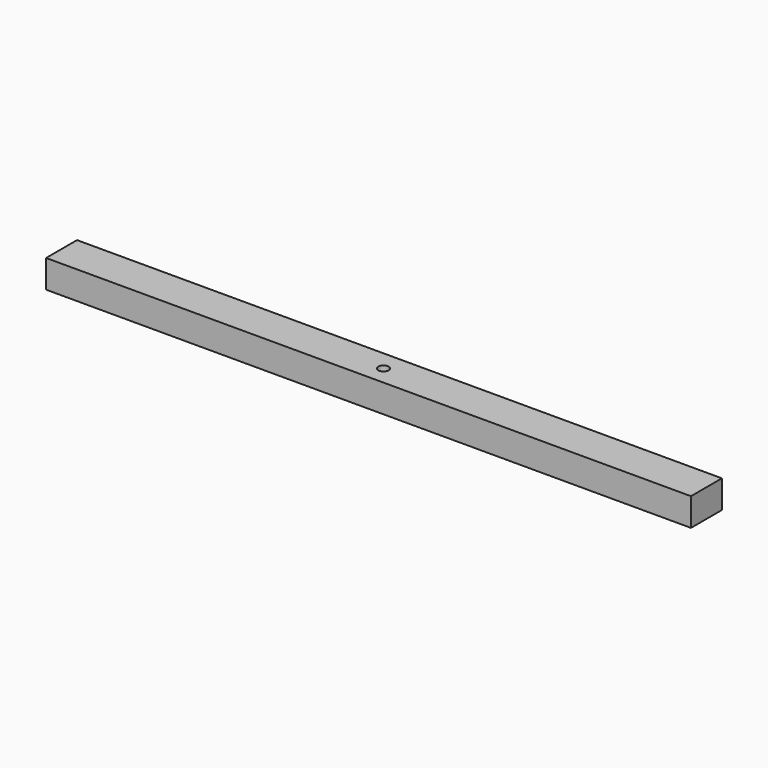
from build123d import *

# Parameters (mm, degrees)
SKETCH_W            = 60
SKETCH_H            = 15
PAD_DEPTH           = 8.51
SKETCH001_R         = 1.6
POCKET_DEPTH        = 8.511
SKETCH002_R         = 2.3
POCKET001_DEPTH     = 5.1
POCKET001_FACE1_W   = 60
POCKET001_FACE1_H   = 8.51
PAD001_DEPTH        = 2.3
PAD001_FACE1_W      = 60
PAD001_FACE1_H      = 8.51
POCKET002_DEPTH     = 5.3
POCKET002_FACE2_W   = 12
POCKET002_FACE2_H   = 60
POCKET002_FACE2_R   = 1.6
POCKET002_FACE2_R_2 = 2.3
PAD002_DEPTH        = 0.15
PAD002_FACE10_W     = 12
PAD002_FACE10_H     = 8.66
PAD003_DEPTH        = 70
PAD003_FACE3_W      = 12
PAD003_FACE3_H      = 8.66
PAD004_DEPTH        = 70


with BuildPart() as part:
    # Sketch → Pad (new body)
    with BuildSketch(Plane.XY):
        with Locations((0, 7.5)):
            Rectangle(SKETCH_W, SKETCH_H)
    extrude(amount=PAD_DEPTH)

    # Sketch001 (on Face6 of Pad) → Pocket (cut, through all)
    with BuildSketch(Plane.XY.offset(8.51)):
        with Locations((0, 3.5)):
            Circle(SKETCH001_R)
    extrude(amount=-POCKET_DEPTH, mode=Mode.SUBTRACT)

    # Sketch002 (on Face4 of Pocket) → Pocket001 (cut)
    with BuildSketch(Plane(origin=(0, 0, 0), x_dir=(1, 0, 0), z_dir=(0, 0, -1))):
        with Locations((-25, -3.7)):
            Circle(SKETCH002_R)
        with Locations((25, -3.7)):
            Circle(SKETCH002_R)
    extrude(amount=-POCKET001_DEPTH, mode=Mode.SUBTRACT)

    # Pocket001 Face1 → Pad001 (add)
    with BuildSketch(Plane(origin=(0, 0, 4.255), x_dir=(-1, 0, 0), z_dir=(0, -1, 0))):
        Rectangle(POCKET001_FACE1_W, POCKET001_FACE1_H)
    extrude(amount=PAD001_DEPTH)

    # Pad001 Face1 → Pocket002 (cut)
    with BuildSketch(Plane(origin=(0, 15, 4.255), x_dir=(1, 0, 0), z_dir=(0, 1, 0))):
        Rectangle(PAD001_FACE1_W, PAD001_FACE1_H)
    extrude(amount=-POCKET002_DEPTH, mode=Mode.SUBTRACT)

    # Pocket002 Face2 → Pad002 (add)
    with BuildSketch(Plane(origin=(0, 3.70237, 0), x_dir=(0, -1, 0), z_dir=(0, 0, -1))):
        with Locations((0.00237, 0)):
            Rectangle(POCKET002_FACE2_W, POCKET002_FACE2_H)
        with Locations((0.20237, 0)):
            Circle(POCKET002_FACE2_R, mode=Mode.SUBTRACT)
        with Locations((0.00237, -25)):
            Circle(POCKET002_FACE2_R_2, mode=Mode.SUBTRACT)
        with Locations((0.00237, 25)):
            Circle(POCKET002_FACE2_R_2, mode=Mode.SUBTRACT)
    extrude(amount=PAD002_DEPTH)

    # Pad002 Face10 → Pad003 (add)
    with BuildSketch(Plane(origin=(-30, 3.7, 4.18), x_dir=(0, 1, 0), z_dir=(-1, 0, 0))):
        Rectangle(PAD002_FACE10_W, PAD002_FACE10_H)
    extrude(amount=PAD003_DEPTH)

    # Pad003 Face3 → Pad004 (add)
    with BuildSketch(Plane(origin=(30, 3.7, 4.18), x_dir=(0, -1, 0), z_dir=(1, 0, 0))):
        Rectangle(PAD003_FACE3_W, PAD003_FACE3_H)
    extrude(amount=PAD004_DEPTH)


solid = part.part
